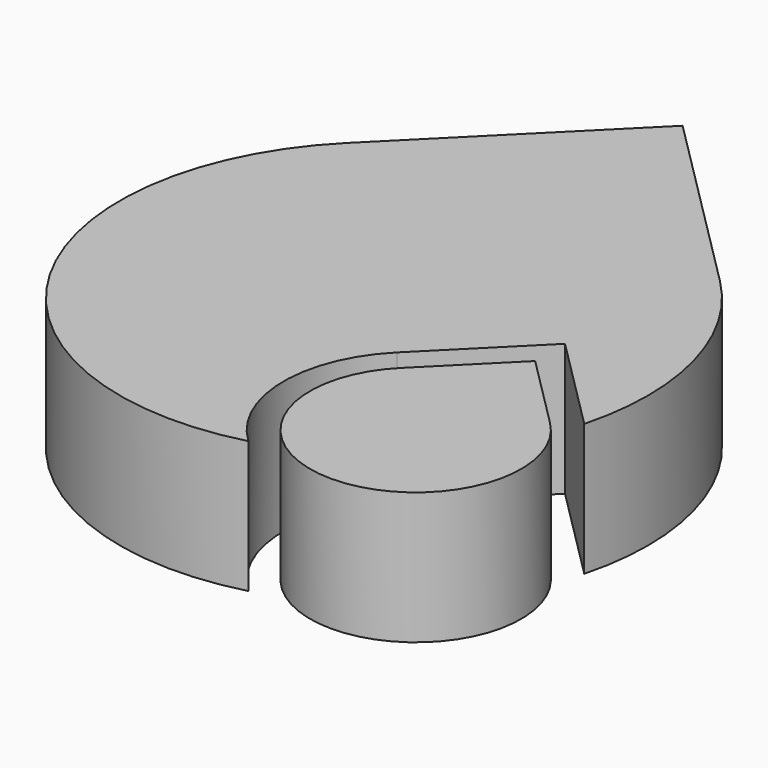
from build123d import *

# Parameters (mm, degrees)
BOX001_W                  = 10
BOX001_H                  = 10
BOX001_DEPTH              = 12
CYLINDER001_R             = 10
CYLINDER001_DEPTH         = 12
BOX_W                     = 20
BOX_H                     = 20
BOX_DEPTH                 = 10
CYLINDER_R                = 20
CYLINDER_DEPTH            = 10
BOX003_W                  = 8
BOX003_H                  = 8
BOX003_DEPTH              = 10
CYLINDER002_R             = 8
CYLINDER002_DEPTH         = 10
FUSION003_PLACEMENT_ANGLE = 135


with BuildPart() as cube001:
    # Box001 → Box001 (new body)
    with BuildSketch(Plane(origin=(0, -10, -1), x_dir=(1, 0, 0), z_dir=(0, 0, 1))):
        with Locations((5, 5)):
            Rectangle(BOX001_W, BOX001_H)
    extrude(amount=BOX001_DEPTH)


with BuildPart() as fusion001:
    # Cylinder001 → Cylinder001 (new body)
    with BuildSketch(Plane.XY.offset(-1)):
        Circle(CYLINDER001_R)
    extrude(amount=CYLINDER001_DEPTH)

    # Fusion001: union Cube001
    add(cube001.part)


with BuildPart() as fusion001_1:
    # Fusion001 placement: moved
    add(fusion001.part.moved(Location((-17, 0, 0))))


with BuildPart() as cube:
    # Box → Box (new body)
    with BuildSketch(Plane(origin=(0, -20, 0), x_dir=(1, 0, 0), z_dir=(0, 0, 1))):
        with Locations((10, 10)):
            Rectangle(BOX_W, BOX_H)
    extrude(amount=BOX_DEPTH)


with BuildPart() as cut:
    # Cylinder → Cylinder (new body)
    with BuildSketch(Plane.XY):
        Circle(CYLINDER_R)
    extrude(amount=CYLINDER_DEPTH)

    # Fusion: union Cube
    add(cube.part)

    # Cut: cut Fusion001
    add(fusion001_1.part, mode=Mode.SUBTRACT)


with BuildPart() as cube003:
    # Box003 → Box003 (new body)
    with BuildSketch(Plane(origin=(0, -8, 0), x_dir=(1, 0, 0), z_dir=(0, 0, 1))):
        with Locations((4, 4)):
            Rectangle(BOX003_W, BOX003_H)
    extrude(amount=BOX003_DEPTH)


with BuildPart() as obj1:
    # Cylinder002 → Cylinder002 (new body)
    with BuildSketch(Plane.XY):
        Circle(CYLINDER002_R)
    extrude(amount=CYLINDER002_DEPTH)

    # Fusion002: union Cube003
    add(cube003.part)


with BuildPart() as obj1_1:
    # Fusion002 placement: moved
    add(obj1.part.moved(Location((-17, 0, 0))))

    # Fusion003: union Cut
    add(cut.part)


with BuildPart() as obj1_2:
    # Fusion003 placement: moved
    add(obj1_1.part.rotate(Axis((0, 0, 0), (0, 0, 1)), FUSION003_PLACEMENT_ANGLE))


solid = obj1_2.part
